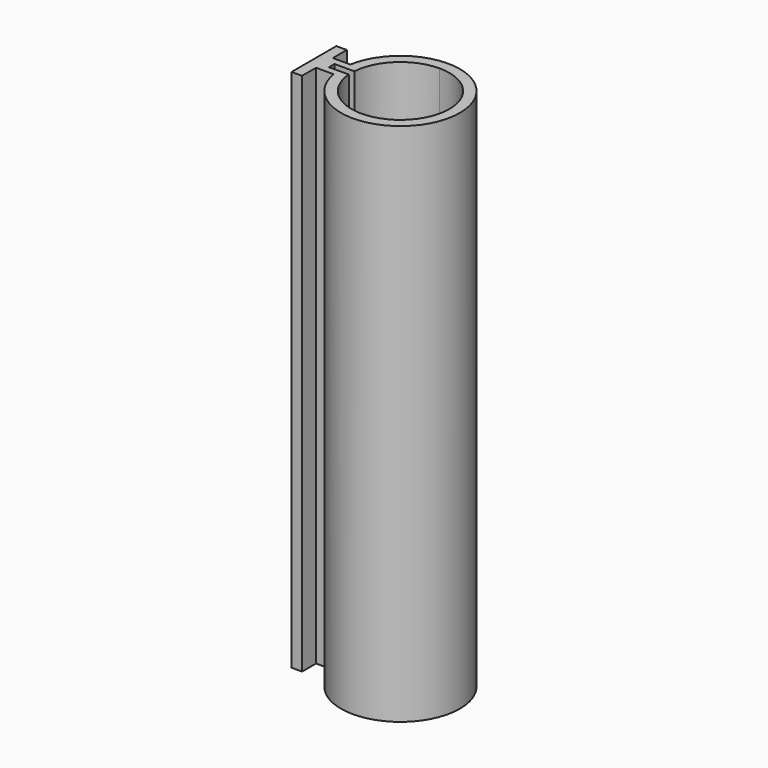
from build123d import *

# Parameters (mm, degrees)
PAD005_DEPTH            = 150
SKETCH013_R             = 14
POCKET005_DEPTH         = 150.001
SKETCH028_W             = 2
SKETCH028_H             = 10
POCKET010_DEPTH         = 150.001
BODY002_PLACEMENT_ANGLE = 90


with BuildPart() as part:
    # Sketch012 → Pad005 (new body)
    with BuildSketch(Plane.XY):
        with BuildLine():
            Line((-3, -3), (-8, -3))
            Line((-8, -3), (-8, 0))
            Line((-8, 0), (8, 0))
            Line((8, 0), (8, -3))
            Line((8, -3), (3, -3))
            Line((3, -3), (3, -8))
            ThreePointArc((-3, -8), (0, -41.733201), (3, -8))
            Line((-3, -3), (-3, -8))
        make_face()
    extrude(amount=PAD005_DEPTH)

    # Sketch013 (on Face10 of Pad005) → Pocket005 (cut, through all)
    with BuildSketch(Plane.XY.offset(150)):
        with Locations((0, -24.733201)):
            Circle(SKETCH013_R)
    extrude(amount=-POCKET005_DEPTH, mode=Mode.SUBTRACT)

    # Sketch028 (on Face4 of Pocket005) → Pocket010 (cut, through all)
    with BuildSketch(Plane(origin=(0, 0, 0), x_dir=(1, 0, 0), z_dir=(0, 0, -1))):
        with Locations((0, 10.103582)):
            Rectangle(SKETCH028_W, SKETCH028_H)
    extrude(amount=-POCKET010_DEPTH, mode=Mode.SUBTRACT)


with BuildPart() as part_1:
    # Body002 placement: moved
    add(part.part.moved(Location((32.5, 0, 0))).rotate(Axis((32.5, 0, 0), (0, 0, 1)), BODY002_PLACEMENT_ANGLE))


solid = part_1.part
